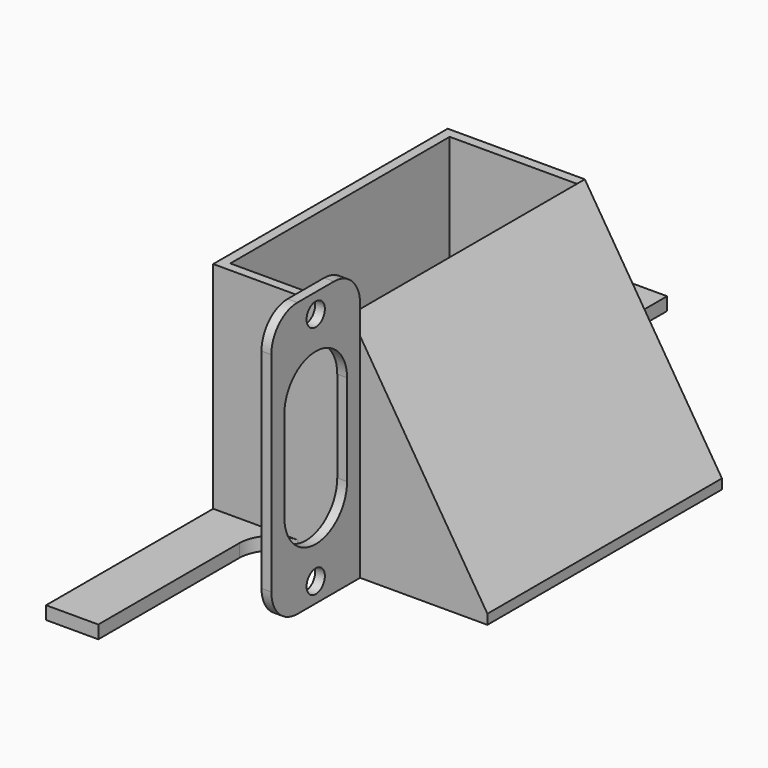
from build123d import *

# Parameters (mm, degrees)
PAD047_DEPTH    = 42
SKETCH076_R     = 18
SKETCH076_R_2   = 1.5
POCKET023_DEPTH = 2
PAD048_DEPTH    = 1.5
PAD049_DEPTH    = 1.4
SKETCH079_W     = 8
SKETCH079_H     = 2
PAD050_DEPTH    = 32
SKETCH080_W     = 8
SKETCH080_H     = 2
PAD051_DEPTH    = 32
SKETCH081_W     = 1.5
SKETCH081_H     = 42
PAD052_DEPTH    = 17
SKETCH082_R     = 1.75
POCKET024_DEPTH = 5
FILLET002_R     = 5


with BuildPart() as part:
    # Sketch075 → Pad047 (new body)
    with BuildSketch(Plane.XZ):
        Polygon((-21, 0), (21, 0), (21, 1.5), (0, 35), (0, 32.17586), (19.229644, 1.5), (-19.5, 1.5), (-19.5, 35), (-21, 35), align=None)
    extrude(amount=PAD047_DEPTH)

    # Sketch076 (on Face2 of Pad047) → Pocket023 (cut)
    with BuildSketch(Plane(origin=(0, 0, 0), x_dir=(1, 0, 0), z_dir=(0, 0, -1))):
        with Locations((0, 21)):
            Circle(SKETCH076_R)
        with Locations((-16, 37)):
            Circle(SKETCH076_R_2)
        with Locations((16, 37)):
            Circle(SKETCH076_R_2)
        with Locations((16, 5)):
            Circle(SKETCH076_R_2)
        with Locations((-16, 5)):
            Circle(SKETCH076_R_2)
    extrude(amount=-POCKET023_DEPTH, mode=Mode.SUBTRACT)

    # Sketch077 (on Face4 of Pocket023) → Pad048 (join)
    with BuildSketch(Plane(origin=(0, 0, 0), x_dir=(1, 0, 0), z_dir=(0, 1, 0))):
        Polygon((-21, -35), (0, -35), (21, -1.5), (21, 0), (-21, 0), align=None)
    extrude(amount=PAD048_DEPTH)

    # Sketch078 (on Face1 of Pad048) → Pad049 (join)
    with BuildSketch(Plane.XZ.offset(42)):
        Polygon((-21, 35), (-21, 0), (21, 0), (21, 1.5), (0, 35), align=None)
    extrude(amount=PAD049_DEPTH)

    # Sketch079 (on Face14 of Pad049) → Pad050 (join)
    with BuildSketch(Plane(origin=(0, 1.5, 0), x_dir=(1, 0, 0), z_dir=(0, 1, 0))):
        with Locations((-17, -1)):
            Rectangle(SKETCH079_W, SKETCH079_H)
    extrude(amount=PAD050_DEPTH)

    # Sketch080 (on Face1 of Pad050) → Pad051 (join)
    with BuildSketch(Plane.XZ.offset(43.4)):
        with Locations((-17, 1)):
            Rectangle(SKETCH080_W, SKETCH080_H)
    extrude(amount=PAD051_DEPTH)

    # Sketch081 (on Face1 of Pad051) → Pad052 (join)
    with BuildSketch(Plane.XZ.offset(43.4)):
        with Locations((0.75, 21)):
            Rectangle(SKETCH081_W, SKETCH081_H)
    extrude(amount=PAD052_DEPTH)

    # Sketch082 (on Face5 of Pad052) → Pocket024 (cut)
    with BuildSketch(Plane(origin=(0, 0, 0), x_dir=(0, 0, -1), z_dir=(-1, 0, 0))):
        with Locations((-39, 51.9)):
            Circle(SKETCH082_R)
        with Locations((-3, 51.9)):
            Circle(SKETCH082_R)
        with BuildLine():
            ThreePointArc((-28, 57.9), (-34, 51.9), (-28, 45.9))
            Line((-28, 45.9), (-14, 45.9))
            ThreePointArc((-14, 45.9), (-8, 51.9), (-14, 57.9))
            Line((-28, 57.9), (-14, 57.9))
        make_face()
    extrude(amount=-POCKET024_DEPTH, mode=Mode.SUBTRACT)

    # Fillet002
    fillet002_edges = [part.edges().sort_by_distance(p)[0] for p in [
        (0.75, -43.4, 42),
        (0.75, -60.4, 42),
        (0.75, -60.4, 0),
        (-13, -43.4, 1),
        (-13, 1.5, 1),
    ]]
    fillet(fillet002_edges, radius=FILLET002_R)


solid = part.part
